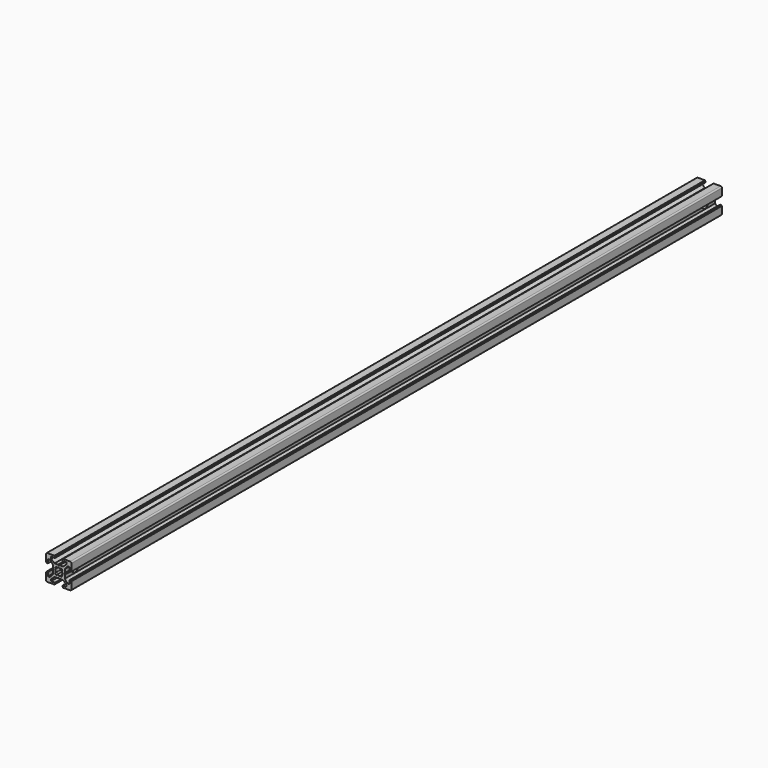
from build123d import *

# Parameters (mm, degrees)
PAD_DEPTH          = 640
POCKET_DEPTH       = 640
POLARPATTERN_COUNT = 4
POCKET001_DEPTH    = 640
SKETCH003_R        = 3
POCKET002_DEPTH    = 20
SKETCH004_R        = 5
POCKET003_DEPTH    = 3


with BuildPart() as part:
    # Sketch → Pad (new body)
    with BuildSketch(Plane.XZ):
        with BuildLine():
            Line((-9, 10), (9, 10))
            ThreePointArc((10, 9), (9.707107, 9.707107), (9, 10))
            Line((10, 9), (10, -9))
            ThreePointArc((9, -10), (9.707107, -9.707107), (10, -9))
            Line((9, -10), (-9, -10))
            ThreePointArc((-10, -9), (-9.707107, -9.707107), (-9, -10))
            Line((-10, -9), (-10, 9))
            ThreePointArc((-9, 10), (-9.707107, 9.707107), (-10, 9))
        make_face()
    extrude(amount=PAD_DEPTH)

    # Sketch001 (on Face10 of Pad) → Pocket (cut)
    with BuildSketch(Plane.XZ.offset(640)):
        Polygon((-3.4, 10), (-3.4, 9.6), (-3, 9.6), (-3, 8.5), (-6, 8.5), (-6, 7), (-3.35, 4.7), (-0.65, 4.7), (0, 4.3), (0.65, 4.7), (3.35, 4.7), (6, 7), (6, 8.5), (3, 8.5), (3, 9.6), (3.4, 9.6), (3.4, 10), align=None)
    pocket = extrude(amount=-POCKET_DEPTH, mode=Mode.SUBTRACT)

    # PolarPattern: Pocket ×4 about axis
    polarpattern_axis = Axis((0, -640, 0), (0, -1, 0))
    for i in range(1, POLARPATTERN_COUNT):
        add(pocket.rotate(polarpattern_axis, i * 360 / POLARPATTERN_COUNT), mode=Mode.SUBTRACT)

    # Sketch002 (on Face4 of PolarPattern) → Pocket001 (cut)
    with BuildSketch(Plane.XZ.offset(640)):
        with BuildLine():
            ThreePointArc((1.340499, 2.401159), (0, 2.75), (-1.340499, 2.401159))
            Line((-1.944544, 3.005204), (-1.340499, 2.401159))
            Line((-3.005204, 1.944544), (-1.944544, 3.005204))
            Line((-2.401159, 1.340499), (-3.005204, 1.944544))
            ThreePointArc((-2.401159, 1.340499), (-2.75, 0), (-2.401159, -1.340499))
            Line((-3.005204, -1.944544), (-2.401159, -1.340499))
            Line((-1.944544, -3.005204), (-3.005204, -1.944544))
            Line((-1.340499, -2.401159), (-1.944544, -3.005204))
            ThreePointArc((-1.340499, -2.401159), (0, -2.75), (1.340499, -2.401159))
            Line((1.944544, -3.005204), (1.340499, -2.401159))
            Line((3.005204, -1.944544), (1.944544, -3.005204))
            Line((2.401159, -1.340499), (3.005204, -1.944544))
            ThreePointArc((2.401159, -1.340499), (2.75, 0), (2.401159, 1.340499))
            Line((2.401159, 1.340499), (3.005204, 1.944544))
            Line((3.005204, 1.944544), (1.944544, 3.005204))
            Line((1.944544, 3.005204), (1.340499, 2.401159))
        make_face()
    extrude(amount=-POCKET001_DEPTH, mode=Mode.SUBTRACT)

    # Sketch003 (on Face44 of Pocket001) → Pocket002 (cut)
    with BuildSketch(Plane(origin=(10, 0, 0), x_dir=(0, 0, 1), z_dir=(1, 0, 0))):
        with Locations((0, 10)):
            Circle(SKETCH003_R)
        with Locations((0, 630)):
            Circle(SKETCH003_R)
    extrude(amount=-POCKET002_DEPTH, mode=Mode.SUBTRACT)

    # Sketch004 (on Face37 of Pocket002) → Pocket003 (cut)
    with BuildSketch(Plane(origin=(-10, 0, 0), x_dir=(0, 0, -1), z_dir=(-1, 0, 0))):
        with Locations((0, 10)):
            Circle(SKETCH004_R)
        with Locations((0, 630)):
            Circle(SKETCH004_R)
    extrude(amount=-POCKET003_DEPTH, mode=Mode.SUBTRACT)


solid = part.part
